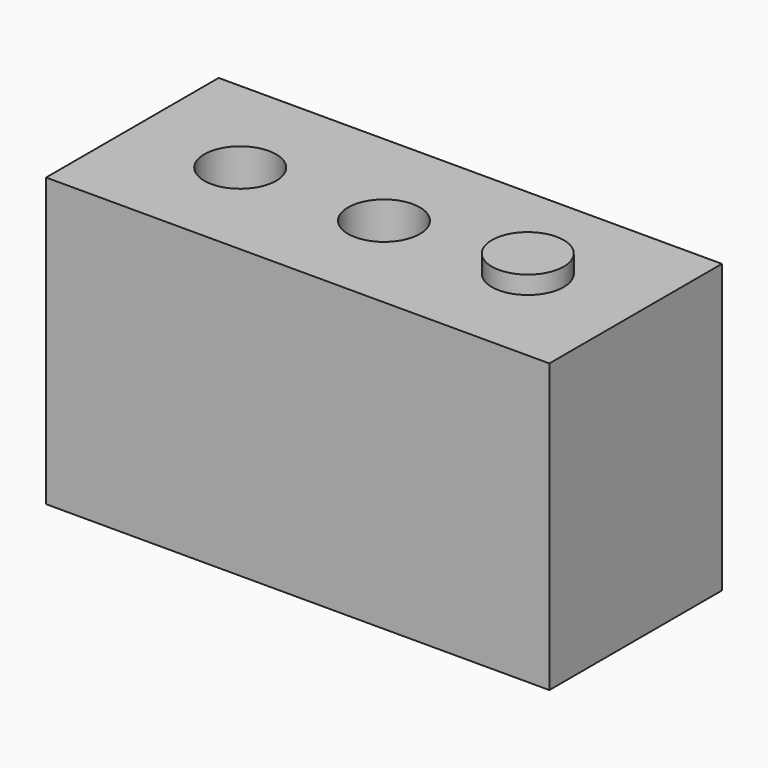
from build123d import *

# Parameters (mm, degrees)
F0_W     = 140
F0_H     = 60
F1_DEPTH = 60
F2_W     = 140
F2_H     = 60
F2_R     = 10
F5_DEPTH = 20
F4_R     = 10
F8_DEPTH = 500
F3_R     = 10
F9_DEPTH = 25


with BuildPart() as f1:
    # F0 (on Top) → F1 (new body)
    with BuildSketch(Plane.XY):
        Rectangle(F0_W, F0_H)
    extrude(amount=F1_DEPTH)

    # F2 (on face) → F5 (join)
    with BuildSketch(Plane.XY.offset(60)):
        Rectangle(F2_W, F2_H)
        with Locations((-40, 0)):
            Circle(F2_R, mode=Mode.SUBTRACT)
    extrude(amount=F5_DEPTH)

    # F4 (on face) → F8 (cut)
    with BuildSketch(Plane.XY.offset(60)):
        Circle(F4_R)
    extrude(amount=F8_DEPTH, mode=Mode.SUBTRACT)

    # F3 (on face) → F9 (join)
    with BuildSketch(Plane.XY.offset(60)):
        with Locations((40, 0)):
            Circle(F3_R)
    extrude(amount=F9_DEPTH)


solid = f1.part
